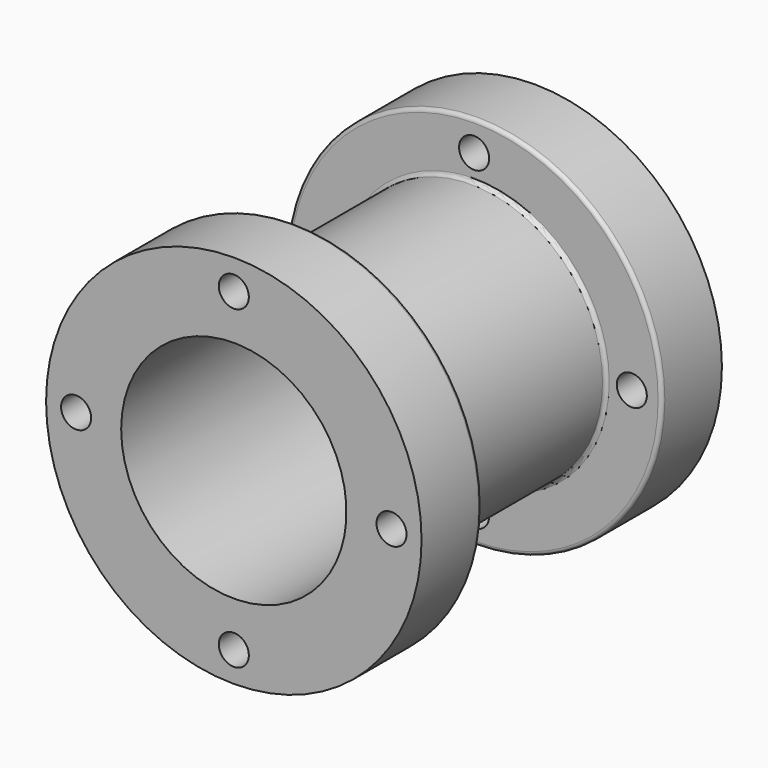
from build123d import *

# Parameters (mm, degrees)
F0_R     = 35
F1_DEPTH = 30
F3_R     = 50
F4_DEPTH = 20
F6_R     = 50
F7_DEPTH = 20
F9_D     = 60
F11_D    = 8
F12_R    = 1


with BuildPart() as f1:
    # F0 (on Front) → F1 (new body, symmetric)
    with BuildSketch(Plane.XZ):
        Circle(F0_R)
    extrude(amount=F1_DEPTH, both=True)

    # F3 (on offset) → F4 (join)
    with BuildSketch(Plane.XZ.offset(30)):
        Circle(F3_R)
    extrude(amount=F4_DEPTH)

    # F6 (on offset) → F7 (join)
    with BuildSketch(Plane.XZ.offset(-30)):
        Circle(F6_R)
    extrude(amount=-F7_DEPTH)

    # F9 (through all)
    with Locations(Plane.XZ.offset(50)):
        with Locations((0, 0)):
            Hole(F9_D / 2)

    # F11 (through all)
    with Locations(Plane.XZ.offset(50)):
        with Locations((0, 42), (-42, 0), (0, -42), (42, 0)):
            Hole(F11_D / 2)

    # F12
    f12_edges = [f1.edges().sort_by_distance(p)[0] for p in [
        (-35, -30, 0),
        (-35, 30, 0),
        (-50, 30, 0),
        (-50, -30, 0),
    ]]
    fillet(f12_edges, radius=F12_R)


solid = f1.part
